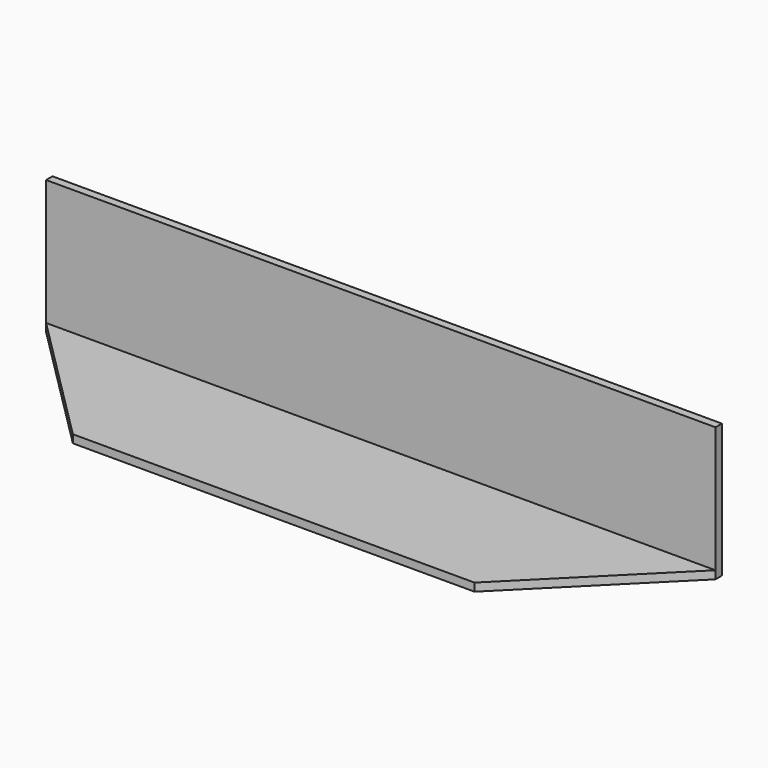
from build123d import *

# Parameters (mm, degrees)
F1_DEPTH = 50
F2_DEPTH = 3


with BuildPart() as f1:
    # F0 (on Top) → F1 (new body)
    with BuildSketch(Plane.XY):
        Polygon((-127.456948, 203), (-127.456948, 200), (-41.785181, 200), (122.543052, 200), (122.543052, 203), align=None)
    extrude(amount=F1_DEPTH)

    # F0 (on Top) → F2 (join)
    with BuildSketch(Plane.XY):
        Polygon((-41.785181, 200), (-127.456948, 200), (-77.456948, 150), (72.543052, 150), (122.543052, 200), align=None)
    extrude(amount=F2_DEPTH)


solid = f1.part
